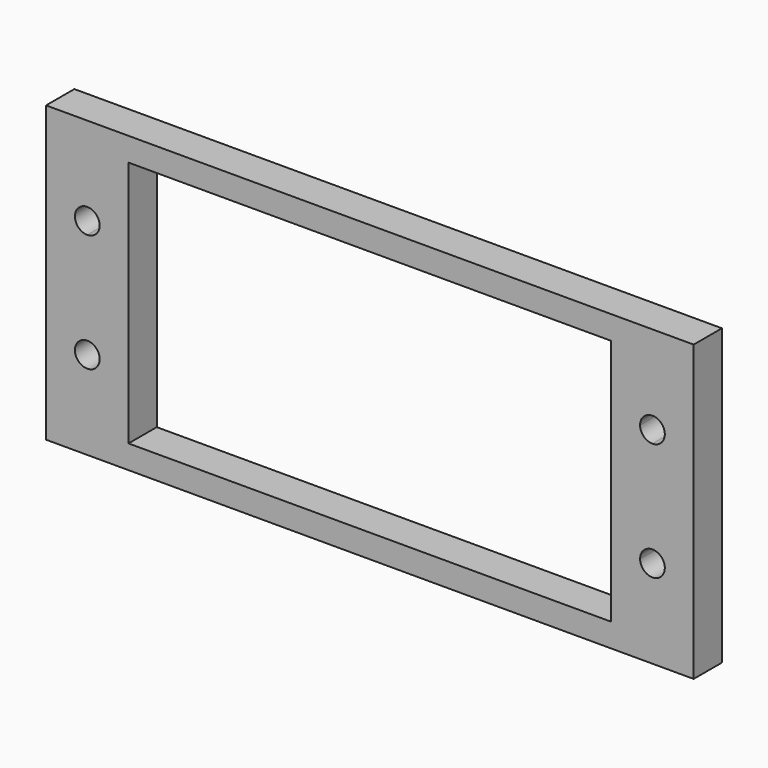
from build123d import *

# Parameters (mm, degrees)
F1_START = 22
F0_W     = 55
F0_H     = 25
F1_DEPTH = 3


with BuildPart() as f1:
    # F0 (on Front) → F1 (new body)
    with BuildSketch(Plane.XZ.offset(F1_START)):
        with Locations((-20.5, 10.5)):
            Rectangle(F0_W, F0_H)
        with BuildLine():
            Line((0, 5.5), (0, 0))
            Line((0, 0), (-41, 0))
            Line((-41, 0), (-41, 5.5))
            Line((-41, 5.5), (-43.45, 5.5))
            ThreePointArc((-43.45, 5.5), (-45.2424621202, 4.7575378798), (-44.5, 6.55))
            Line((-44.5, 6.55), (-44.5, 14.45))
            ThreePointArc((-44.5, 14.45), (-45.2424621202, 16.2424621202), (-43.45, 15.5))
            Line((-43.45, 15.5), (-41, 15.5))
            Line((-41, 15.5), (-41, 21))
            Line((-41, 21), (0, 21))
            Line((0, 21), (0, 15.5))
            Line((0, 15.5), (2.45, 15.5))
            ThreePointArc((2.45, 15.5), (3.5, 16.55), (4.55, 15.5))
            ThreePointArc((4.55, 15.5), (4.2424621202, 14.7575378798), (3.5, 14.45))
            Line((3.5, 14.45), (3.5, 6.55))
            ThreePointArc((3.5, 6.55), (4.2424621202, 6.2424621202), (4.55, 5.5))
            ThreePointArc((4.55, 5.5), (3.5, 4.45), (2.45, 5.5))
            Line((2.45, 5.5), (0, 5.5))
        make_face(mode=Mode.SUBTRACT)
        with BuildLine():
            Line((-43.45, 5.5), (-41, 5.5))
            Line((-41, 5.5), (-41, 15.5))
            Line((-41, 15.5), (-43.45, 15.5))
            ThreePointArc((-43.45, 15.5), (-43.7575378798, 14.7575378798), (-44.5, 14.45))
            Line((-44.5, 14.45), (-44.5, 6.55))
            ThreePointArc((-44.5, 6.55), (-43.7575378798, 6.2424621202), (-43.45, 5.5))
        make_face()
        with BuildLine():
            Line((0, 15.5), (0, 5.5))
            Line((0, 5.5), (2.45, 5.5))
            ThreePointArc((2.45, 5.5), (2.7575378798, 6.2424621202), (3.5, 6.55))
            Line((3.5, 6.55), (3.5, 14.45))
            ThreePointArc((3.5, 14.45), (2.7575378798, 14.7575378798), (2.45, 15.5))
            Line((2.45, 15.5), (0, 15.5))
        make_face()
    extrude(amount=F1_DEPTH)


solid = f1.part
